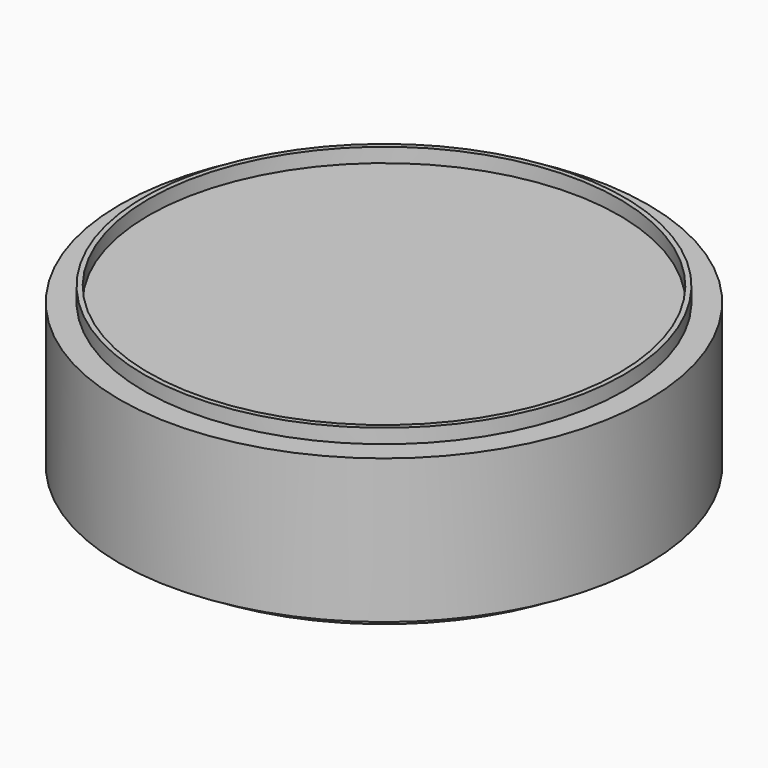
from build123d import *

# Parameters (mm, degrees)
F0_R     = 54.998868
F1_DEPTH = 30
F2_R     = 49.998868
F2_R_2   = 48.998866
F3_DEPTH = 3
F4_R     = 49.998868
F4_R_2   = 48.998866
F5_DEPTH = 3


with BuildPart() as f1:
    # F0 (on Top) → F1 (new body)
    with BuildSketch(Plane.XY):
        Circle(F0_R)
    extrude(amount=F1_DEPTH)

    # F2 (on face) → F3 (join)
    with BuildSketch(Plane(origin=(0, 0, 0), x_dir=(1, 0, 0), z_dir=(0, 0, -1))):
        Circle(F2_R)
        Circle(F2_R_2, mode=Mode.SUBTRACT)
    extrude(amount=F3_DEPTH)

    # F4 (on face) → F5 (join)
    with BuildSketch(Plane.XY.offset(30)):
        Circle(F4_R)
        Circle(F4_R_2, mode=Mode.SUBTRACT)
    extrude(amount=F5_DEPTH)


solid = f1.part
